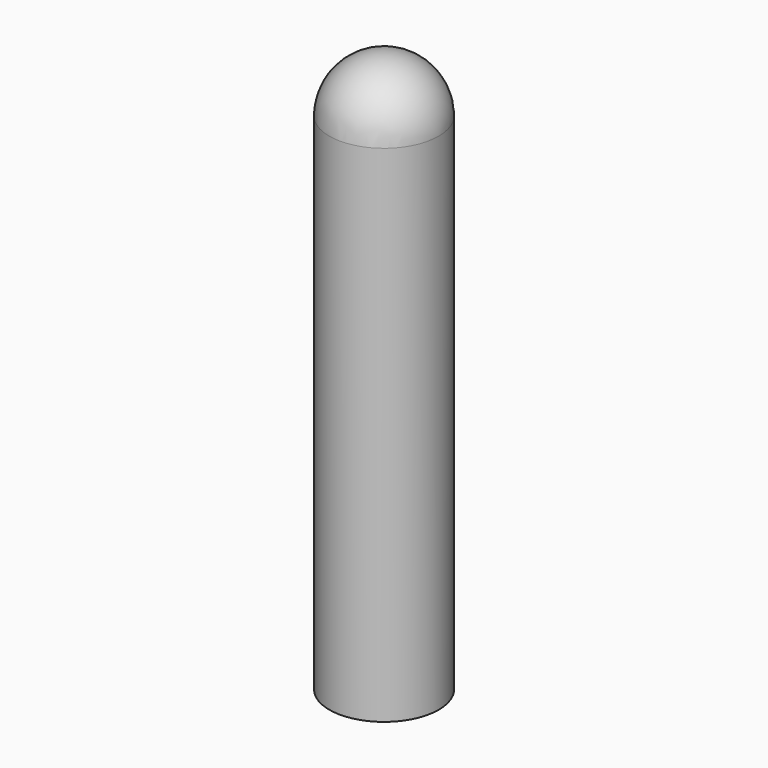
from build123d import *

# Parameters (mm, degrees)
F0_R     = 8.255
F0_R_2   = 5.1435
F1_DEPTH = 76.2
F3_ANGLE = 180


with BuildPart() as f1:
    # F0 (on Top) → F1 (new body)
    with BuildSketch(Plane.XY):
        Circle(F0_R)
        Circle(F0_R_2, mode=Mode.SUBTRACT)
    extrude(amount=F1_DEPTH)

    # F2 (on face) → F3 (revolve)
    with BuildSketch(Plane.XY.offset(76.2)):
        with BuildLine():
            Line((-8.255, 0), (8.255, 0))
            ThreePointArc((8.255, 0), (0, 8.255), (-8.255, 0))
        make_face()
    revolve(axis=Axis((0, 0, 76.2), (1, 0, 0)), revolution_arc=F3_ANGLE)


solid = f1.part
